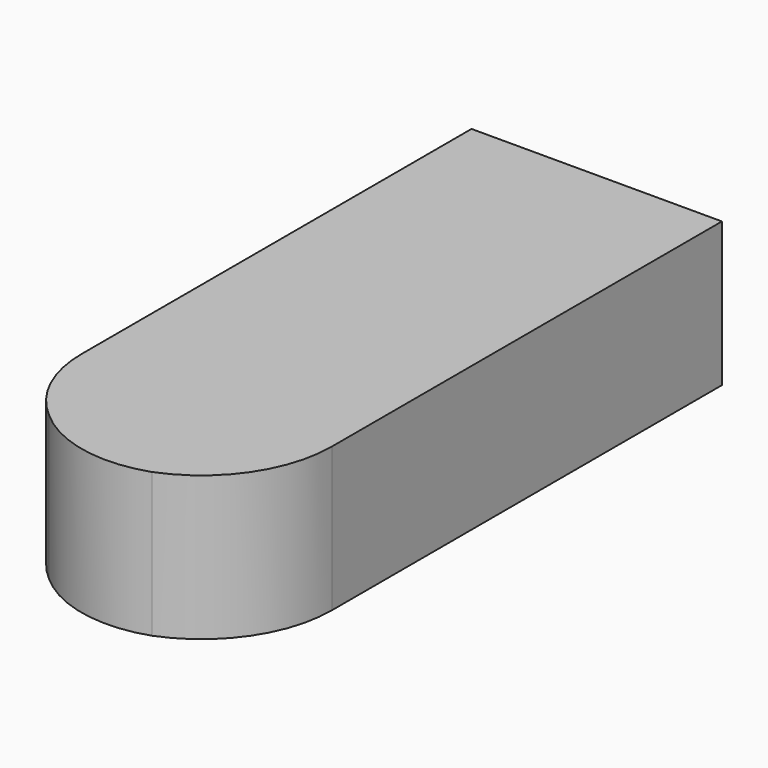
from build123d import *

# Parameters (mm, degrees)
F1_DEPTH = 25.4


with BuildPart() as f1:
    # F0 (on Top) → F1 (new body)
    with BuildSketch(Plane.XY):
        with BuildLine():
            Line((17.489951, 31.716853), (-26.626494, 31.716853))
            Line((-26.626494, 31.716853), (-26.626494, -54.166641))
            ThreePointArc((-26.626494, -54.166641), (-24.574217, -63.510594), (-18.795172, -71.1345))
            ThreePointArc((-18.795172, -71.1345), (-8.568909, -76.317285), (2.871485, -75.572252))
            ThreePointArc((2.871485, -75.572252), (13.486649, -67.127156), (17.489951, -54.166641))
            Line((17.489951, -54.166641), (17.489951, 31.716853))
        make_face()
    extrude(amount=F1_DEPTH)


solid = f1.part
